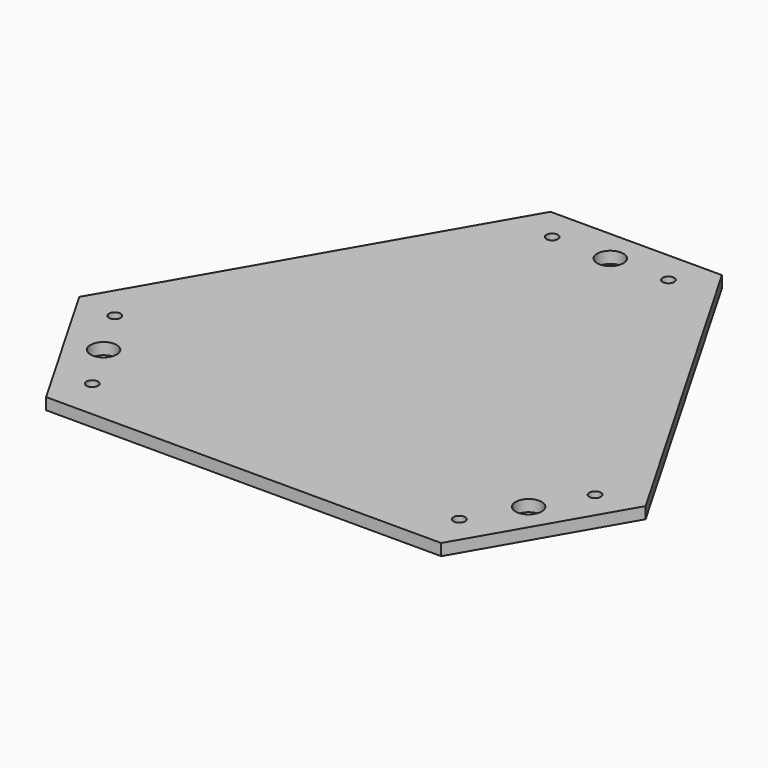
from build123d import *

# Parameters (mm, degrees)
F0_R     = 6.35
F0_R_2   = 14.2875
F1_DEPTH = 12.7


with BuildPart() as f1:
    # F0 (on Top) → F1 (new body)
    with BuildSketch(Plane.XY):
        Polygon((-367.050953, -215.623875), (-273.490369, -377.910882), (158.309631, -377.910882), (251.870214, -215.623875), (36.072131, 158.384718), (-151.252869, 158.384718), align=None)
        with Locations((-258.135842, -333.942033)):
            Circle(F0_R, mode=Mode.SUBTRACT)
        with Locations((-289.851294, -278.929488)):
            Circle(F0_R_2, mode=Mode.SUBTRACT)
        with Locations((-321.566746, -223.916943)):
            Circle(F0_R, mode=Mode.SUBTRACT)
        with Locations((142.955103, -333.942033)):
            Circle(F0_R, mode=Mode.SUBTRACT)
        with Locations((174.670555, -278.929488)):
            Circle(F0_R_2, mode=Mode.SUBTRACT)
        with Locations((205.089922, -226.165088)):
            Circle(F0_R, mode=Mode.SUBTRACT)
        with Locations((-121.090369, 122.945368)):
            Circle(F0_R, mode=Mode.SUBTRACT)
        with Locations((-57.590369, 122.945368)):
            Circle(F0_R_2, mode=Mode.SUBTRACT)
        with Locations((5.909631, 122.945368)):
            Circle(F0_R, mode=Mode.SUBTRACT)
    extrude(amount=F1_DEPTH)


solid = f1.part
